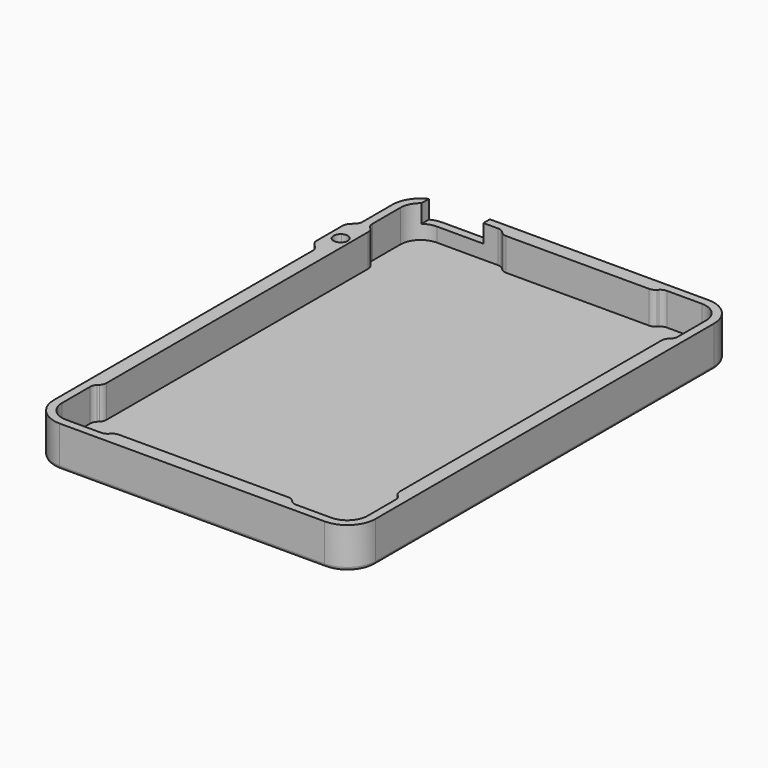
from build123d import *

# Parameters (mm, degrees)
F0_W      = 79.5
F0_H      = 118.5
F1_DEPTH  = 10
F3_R      = 7
F5_DEPTH  = 3.5
F6_R      = 0.8
F8_DEPTH  = 3.5
F9_R      = 2
F10_DEPTH = 4.5
F2_W      = 14.5
F2_H      = 4.5
F11_DEPTH = 4
F13_DEPTH = 9
F14_DEPTH = 25
F15_R     = 2


with BuildPart() as f1:
    # F0 (on Top) → F1 (new body)
    with BuildSketch(Plane.XY):
        with Locations((0, 59.25)):
            Rectangle(F0_W, F0_H)
    extrude(amount=F1_DEPTH)

    # F3
    f3_edges = [f1.edges().sort_by_distance(p)[0] for p in [
        (-39.75, 118.5, 5),
        (-39.75, 0, 5),
        (39.75, 0, 5),
        (39.75, 118.5, 5),
    ]]
    fillet(f3_edges, radius=F3_R)

    # F4 (on face) → F5 (cut)
    with BuildSketch(Plane.XY.offset(10)):
        with BuildLine():
            Line((32.75, 116.5), (-32.75, 116.5))
            ThreePointArc((-32.75, 116.5), (-36.2855339059, 115.0355339059), (-37.75, 111.5))
            Line((-37.75, 111.5), (-37.75, 7))
            ThreePointArc((-37.75, 7), (-36.2855339059, 3.4644660941), (-32.75, 2))
            Line((-32.75, 2), (32.75, 2))
            ThreePointArc((32.75, 2), (36.2855339059, 3.4644660941), (37.75, 7))
            Line((37.75, 7), (37.75, 111.5))
            ThreePointArc((37.75, 111.5), (36.2855339059, 115.0355339059), (32.75, 116.5))
        make_face()
    extrude(amount=-F5_DEPTH, mode=Mode.SUBTRACT)

    # F6
    f6_edges = [f1.edges().sort_by_distance(p)[0] for p in [
        (0, 118.5, 0),
        (37.699747, 116.449747, 0),
        (-37.699747, 116.449747, 0),
        (39.75, 59.25, 0),
        (-39.75, 59.25, 0),
        (37.699747, 2.050253, 0),
        (-37.699747, 2.050253, 0),
        (0, 0, 0),
    ]]
    fillet(f6_edges, radius=F6_R)

    # F7 (on face) → F8 (join)
    with BuildSketch(Plane.XY.offset(6.5)):
        Polygon((-36.25, 100.5), (-37.75, 102), (-37.75, 16.5), (-36.25, 18), align=None)
        Polygon((37.75, 16.5), (37.75, 102), (36.25, 100.5), (36.25, 18), align=None)
        Polygon((-21.75, 3.5), (-23.25, 2), (23.25, 2), (21.75, 3.5), align=None)
        Polygon((23.25, 116.5), (-16.75, 116.5), (-15.25, 115), (21.75, 115), align=None)
    extrude(amount=F8_DEPTH)

    # F9
    f9_edges = [f1.edges().sort_by_distance(p)[0] for p in [
        (-37.75, 102, 8.25),
        (-36.25, 100.5, 8.25),
        (-37.75, 16.5, 8.25),
        (-36.25, 18, 8.25),
        (36.25, 100.5, 8.25),
        (37.75, 102, 8.25),
        (36.25, 18, 8.25),
        (37.75, 16.5, 8.25),
        (23.25, 2, 8.25),
        (21.75, 3.5, 8.25),
        (-23.25, 2, 8.25),
        (-21.75, 3.5, 8.25),
        (-16.75, 116.5, 8.25),
        (-15.25, 115, 8.25),
        (21.75, 115, 8.25),
        (23.25, 116.5, 8.25),
    ]]
    fillet(f9_edges, radius=F9_R)

    # F10 (cut): a face of the model
    f10_faces = [f1.faces().sort_by_distance(p)[0] for p in [
        (-0.0227609258, 59.3168047951, 6.5),
    ]]
    extrude(f10_faces, amount=-F10_DEPTH, mode=Mode.SUBTRACT)

    # F2 (on face) → F11 (cut)
    with BuildSketch(Plane(origin=(0, 118.5, 0), x_dir=(-1, 0, 0), z_dir=(0, 1, 0))):
        with Locations((28.5, 7.75)):
            Rectangle(F2_W, F2_H)
    extrude(amount=-F11_DEPTH, mode=Mode.SUBTRACT)

    # F12 (on face) → F13 (join)
    with BuildSketch(Plane.XY.offset(10)):
        with BuildLine():
            ThreePointArc((-39.75, 92.8803269811), (-40.5, 94.3164676428), (-39.75, 95.7526083044))
            Line((-39.75, 95.7526083044), (-39.75, 101.5))
            Line((-39.75, 101.5), (-41.75, 99.5))
            Line((-41.75, 99.5), (-41.75, 89.7678693718))
            Line((-41.75, 89.7678693718), (-39.75, 87.7678693718))
            Line((-39.75, 87.7678693718), (-39.75, 92.8803269811))
        make_face()
    extrude(amount=-F13_DEPTH)

    # F12 (on face) → F14 (cut)
    with BuildSketch(Plane.XY.offset(10)):
        with BuildLine():
            Line((-39.75, 92.8803269811), (-39.75, 95.7526083044))
            ThreePointArc((-39.75, 95.7526083044), (-40.5, 94.3164676428), (-39.75, 92.8803269811))
        make_face()
        with BuildLine():
            ThreePointArc((-39.75, 92.8803269811), (-37.9399074127, 92.765258437), (-37, 94.3164676428))
            ThreePointArc((-37, 94.3164676428), (-37.9399074127, 95.8676768485), (-39.75, 95.7526083044))
            Line((-39.75, 95.7526083044), (-39.75, 92.8803269811))
        make_face()
    extrude(amount=-F14_DEPTH, mode=Mode.SUBTRACT)

    # F15
    f15_edges = [f1.edges().sort_by_distance(p)[0] for p in [
        (-41.75, 99.5, 5.5),
        (-39.75, 101.5, 5.5),
        (-41.75, 89.767869, 5.5),
        (-39.75, 87.767869, 5.5),
    ]]
    fillet(f15_edges, radius=F15_R)


solid = f1.part
